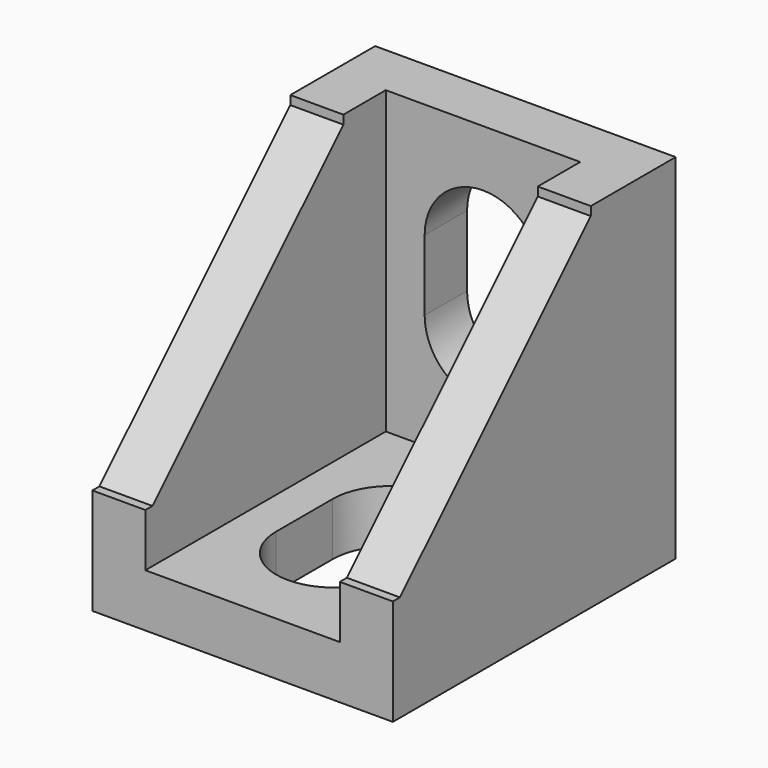
from build123d import *

# Parameters (mm, degrees)
F2_W      = 17
F2_H      = 20
F3_DEPTH  = 3
F5_DEPTH  = 17
F7_DEPTH  = 25
F8_W      = 6.6
F8_H      = 4
F9_DEPTH  = 25
F10_W     = 6.6
F10_H     = 4
F11_DEPTH = 25


with BuildPart() as f3:
    # F2 (on Top) → F3 (new body)
    with BuildSketch(Plane.XY):
        Rectangle(F2_W, F2_H)
    extrude(amount=F3_DEPTH)

    # F4 (on face) → F5 (join)
    with BuildSketch(Plane.XY.offset(3)):
        Polygon((-5.5, 7), (5.5, 7), (5.5, -10), (8.5, -10), (8.5, 10), (-8.5, 10), (-8.5, -10), (-5.5, -10), align=None)
    extrude(amount=F5_DEPTH)

    # F6 (on face) → F7 (intersect)
    with BuildSketch(Plane.YZ.offset(8.5)):
        Polygon((-10, 6), (-10, 0), (10, 0), (10, 20), (4, 20), (4, 19.5), (-9.5, 6), align=None)
    extrude(amount=-F7_DEPTH, mode=Mode.INTERSECT)

    # F8 (on face) → F9 (cut)
    with BuildSketch(Plane.XY.offset(3)):
        with BuildLine():
            ThreePointArc((3.3, 0.5), (0, 3.8), (-3.3, 0.5))
            Line((-3.3, 0.5), (3.3, 0.5))
        make_face()
        with Locations((0, -1.5)):
            Rectangle(F8_W, F8_H)
        with BuildLine():
            Line((3.3, -3.5), (-3.3, -3.5))
            ThreePointArc((-3.3, -3.5), (0, -6.8), (3.3, -3.5))
        make_face()
    extrude(amount=-F9_DEPTH, mode=Mode.SUBTRACT)

    # F10 (on face) → F11 (cut)
    with BuildSketch(Plane.XZ.offset(-7)):
        with BuildLine():
            ThreePointArc((-3.3, 9.5), (0, 6.2), (3.3, 9.5))
            Line((3.3, 9.5), (-3.3, 9.5))
        make_face()
        with Locations((0, 11.5)):
            Rectangle(F10_W, F10_H)
        with BuildLine():
            Line((-3.3, 13.5), (3.3, 13.5))
            ThreePointArc((3.3, 13.5), (0, 16.8), (-3.3, 13.5))
        make_face()
    extrude(amount=-F11_DEPTH, mode=Mode.SUBTRACT)


solid = f3.part
